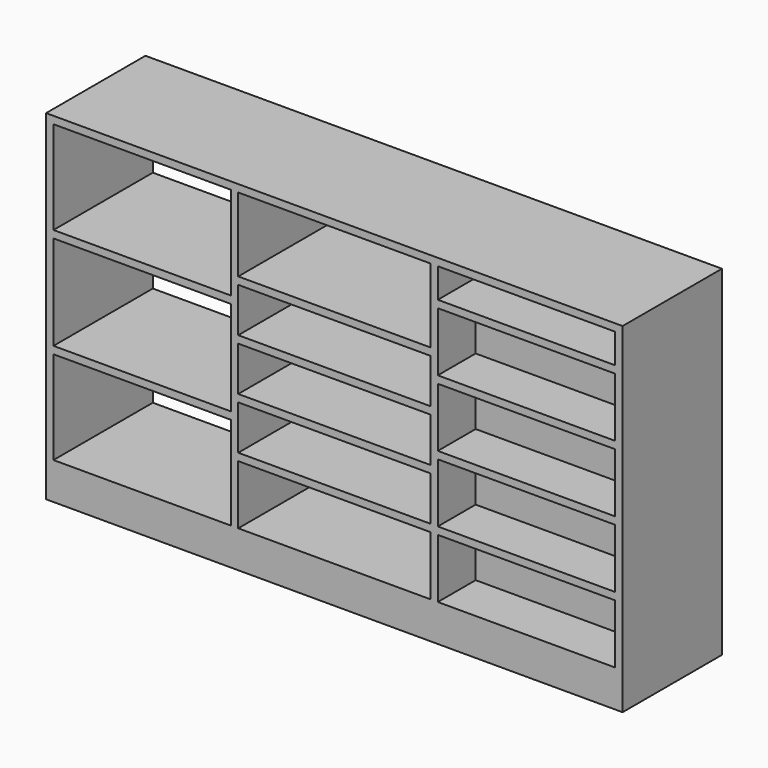
from build123d import *

# Parameters (mm, degrees)
F0_W     = 1950
F0_H     = 1150
F1_DEPTH = 420
F2_W     = 650
F2_H     = 200
F2_H_2   = 150
F2_H_3   = 250
F2_W_2   = 600
F2_H_4   = 315
F2_H_5   = 320
F3_DEPTH = 450
F4_W     = 600
F4_H     = 200
F5_DEPTH = 160
F6_W     = 600
F6_H     = 100
F7_DEPTH = 450
F8_W     = 400
F8_H     = 250
F9_DEPTH = 500


with BuildPart() as f1:
    # F0 (on Front) → F1 (new body)
    with BuildSketch(Plane.XZ):
        with Locations((934.696341, 542.311319)):
            Rectangle(F0_W, F0_H)
    extrude(amount=F1_DEPTH)

    # F2 (on face) → F3 (cut)
    with BuildSketch(Plane.XZ.offset(420)):
        with Locations((934.696341, 192.311319)):
            Rectangle(F2_W, F2_H)
        with Locations((934.696341, 392.311319)):
            Rectangle(F2_W, F2_H_2)
        with Locations((934.696341, 567.311319)):
            Rectangle(F2_W, F2_H_2)
        with Locations((934.696341, 742.311319)):
            Rectangle(F2_W, F2_H_2)
        with Locations((934.696341, 967.311319)):
            Rectangle(F2_W, F2_H_3)
        with Locations((284.696341, 934.811319)):
            Rectangle(F2_W_2, F2_H_4)
        with Locations((284.696341, 592.311319)):
            Rectangle(F2_W_2, F2_H_5)
        with Locations((284.696341, 249.811319)):
            Rectangle(F2_W_2, F2_H_4)
    extrude(amount=-F3_DEPTH, mode=Mode.SUBTRACT)

    # F4 (on face) → F5 (cut)
    with BuildSketch(Plane.XZ.offset(420)):
        Polygon((1884.696341, 967.311319), (1284.696341, 967.311319), (1284.696341, 842.311319), (1284.696341, 817.311319), (1284.696341, 767.311319), (1884.696341, 767.311319), (1884.696341, 817.311319), (1884.696341, 842.311319), align=None)
        with Locations((1584.696341, 642.311319)):
            Rectangle(F4_W, F4_H)
        with Locations((1584.696341, 417.311319)):
            Rectangle(F4_W, F4_H)
        with Locations((1584.696341, 192.311319)):
            Rectangle(F4_W, F4_H)
    extrude(amount=-F5_DEPTH, mode=Mode.SUBTRACT)

    # F6 (on face) → F7 (cut)
    with BuildSketch(Plane.XZ.offset(420)):
        with Locations((1584.696341, 1042.311319)):
            Rectangle(F6_W, F6_H)
    extrude(amount=-F7_DEPTH, mode=Mode.SUBTRACT)

    # F8 (on face) → F9 (cut)
    with BuildSketch(Plane(origin=(0, 0, -32.688681), x_dir=(1, 0, 0), z_dir=(0, 0, -1))):
        with Locations((1684.696341, 125)):
            Rectangle(F8_W, F8_H)
    extrude(amount=-F9_DEPTH, mode=Mode.SUBTRACT)


solid = f1.part
